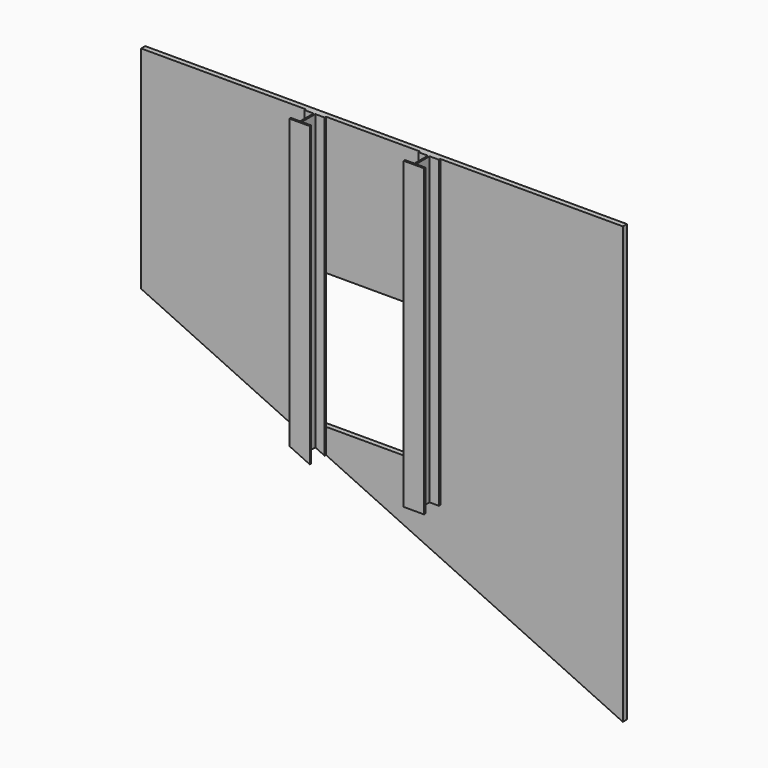
from build123d import *

# Parameters (mm, degrees)
F1_DEPTH = 1800
F4_W     = 675
F4_H     = 800
F5_DEPTH = 30
F7_DEPTH = 30
F9_DEPTH = 1003


with BuildPart() as f1:
    # F0 (on Top) → F1 (new body)
    with BuildSketch(Plane.XY):
        Polygon((-60, -60), (-5, -60), (5, -60), (60, -60), (60, -50), (5, -50), (5, 50), (60, 50), (60, 60), (5, 60), (-5, 60), (-60, 60), (-60, 50), (-5, 50), (-5, -50), (-60, -50), align=None)
    extrude(amount=F1_DEPTH)


with BuildPart() as f3_1:
    # F3: instance of F1
    add(f1.part.mirror(Plane.YZ.offset(337.5)))


with BuildPart() as f1_1:
    add(f1.part)

    add(f3_1.part)  # F5 merges F3_1
    # F4 (on face) → F5 (join)
    with BuildSketch(Plane(origin=(0, 60, 0), x_dir=(-1, 0, 0), z_dir=(0, 1, 0))):
        Polygon((0, 1800), (-675, 1800), (-1813.7336969376, 1800), (-1813.7336969376, 0), (-675, 0), (0, 0), (1032.4980020523, 0), (1032.4980020523, 1800), align=None)
        with Locations((-337.5, 587.3650103807)):
            Rectangle(F4_W, F4_H, mode=Mode.SUBTRACT)
    extrude(amount=F5_DEPTH)

    # F6 (on face) → F7 (join)
    with BuildSketch(Plane(origin=(0, 90, 0), x_dir=(-1, 0, 0), z_dir=(0, 1, 0))):
        Polygon((-1813.7336969376, -777.2196381225), (-146.980804228, 0), (-1813.7336969376, 0), align=None)
    extrude(amount=-F7_DEPTH)

    # F8 (on face) → F9 (cut)
    with BuildSketch(Plane(origin=(0, 90, 0), x_dir=(-1, 0, 0), z_dir=(0, 1, 0))):
        Polygon((1032.4980020523, 550), (-146.980804228, 0), (1032.4980020523, 0), align=None)
    extrude(amount=-F9_DEPTH, mode=Mode.SUBTRACT)


solid = f1_1.part
